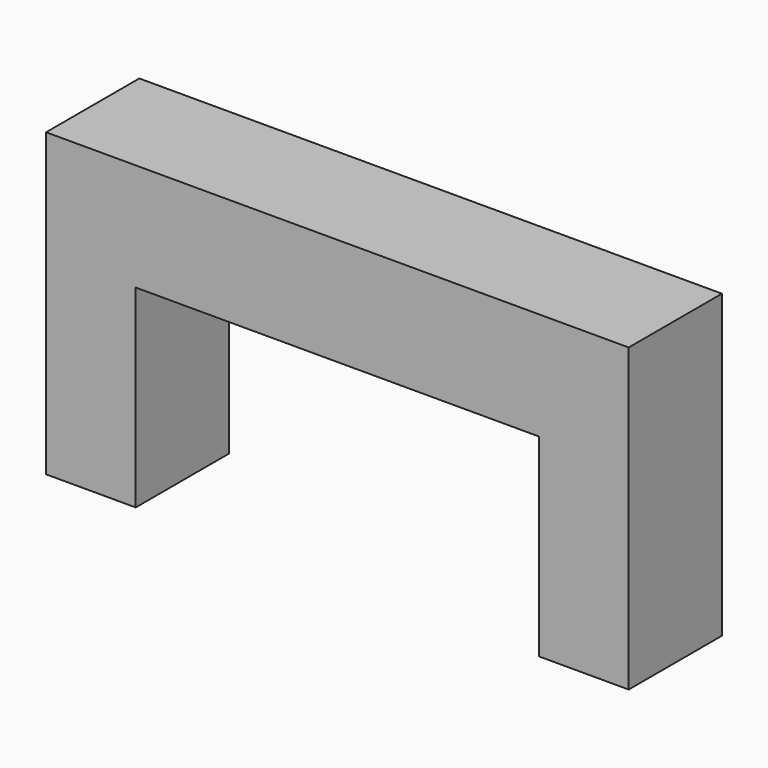
from build123d import *

# Parameters (mm, degrees)
F1_DEPTH      = 10.668
F2_W          = 2.54
F2_H          = 13.716
F2_W_2        = 10.541
F3_DEPTH      = 20.6385
F3_DEPTH_BACK = 20.6385
F4_R          = 1
F5_DEPTH      = 5.08
F6_R          = 1.05
F7_DEPTH      = 6.985
F8_W          = 11.4453516792
F8_H          = 8.6245518178
F8_W_2        = 4.2650750415
F9_DEPTH      = 20.6385
F9_DEPTH_BACK = 20.6385


with BuildPart() as f1:
    # F0 (on Front) → F1 (new body, symmetric)
    with BuildSketch(Plane.XZ):
        Polygon((-14.2875, 0), (0, 0), (14.2875, 0), (14.2875, -13.716), (20.6375, -13.716), (20.6375, 7.62), (0, 7.62), (-20.6375, 7.62), (-20.6375, -13.716), (-14.2875, -13.716), align=None)
    extrude(amount=F1_DEPTH, both=True)

    # F2 (on Right) → F3 (cut, two sides)
    with BuildSketch(Plane.YZ) as f3_sk:
        with Locations((9.398, -6.858)):
            Rectangle(F2_W, F2_H)
        with Locations((-5.3975, -6.858)):
            Rectangle(F2_W_2, F2_H)
    extrude(amount=-F3_DEPTH, mode=Mode.SUBTRACT)
    extrude(f3_sk.sketch, amount=F3_DEPTH_BACK, mode=Mode.SUBTRACT)

    # F4 (on face) → F5 (cut)
    with BuildSketch(Plane(origin=(0, 8.128, 0), x_dir=(-1, 0, 0), z_dir=(0, 1, 0))):
        with Locations((-17.4625, -6.096)):
            Circle(F4_R)
        with Locations((17.4625, -6.096)):
            Circle(F4_R)
    extrude(amount=-F5_DEPTH, mode=Mode.SUBTRACT)

    # F6 (on face) → F7 (cut)
    with BuildSketch(Plane(origin=(0, 0, -13.716), x_dir=(1, 0, 0), z_dir=(0, 0, -1))):
        with Locations((-17.4625, -1.778)):
            Circle(F6_R)
        with Locations((17.4625, -1.778)):
            Circle(F6_R)
    extrude(amount=-F7_DEPTH, mode=Mode.SUBTRACT)

    # F8 (on Right) → F9 (cut, two sides)
    with BuildSketch(Plane.YZ) as f9_sk:
        with Locations((-5.8496758396, 4.3122759089)):
            Rectangle(F8_W, F8_H)
        with Locations((10.2605375207, 4.3122759089)):
            Rectangle(F8_W_2, F8_H)
    extrude(amount=F9_DEPTH, mode=Mode.SUBTRACT)
    extrude(f9_sk.sketch, amount=-F9_DEPTH_BACK, mode=Mode.SUBTRACT)


solid = f1.part
